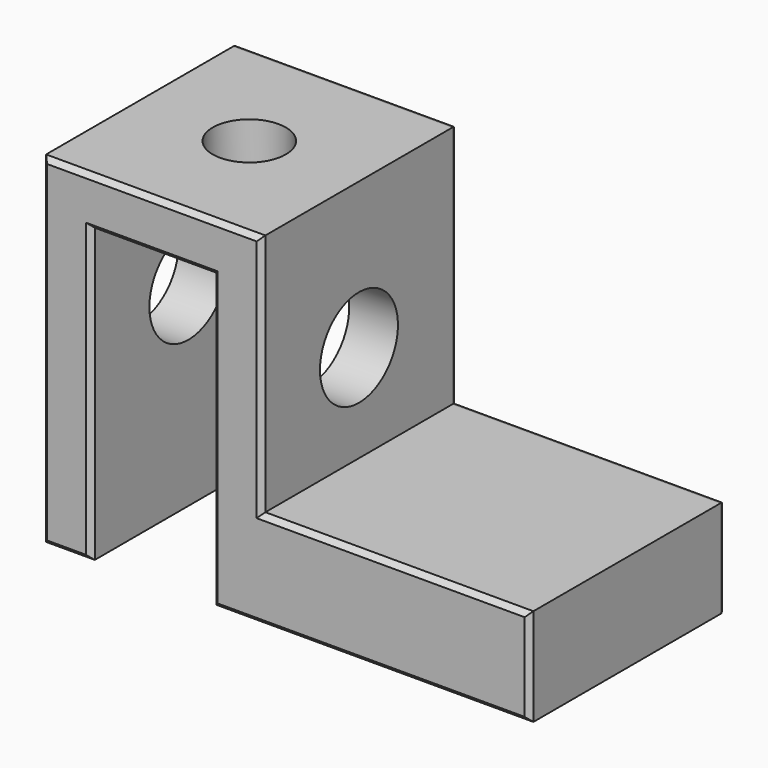
from build123d import *

# Parameters (mm, degrees)
F0_W     = 100
F0_H     = 50
F1_DEPTH = 20
F2_W     = 45
F2_H     = 50
F3_DEPTH = 50
F4_W     = 25
F4_H     = 60
F5_DEPTH = 50.001
F6_R     = 10
F7_DEPTH = 100.001
F8_R     = 7.5
F9_DEPTH = 10
F10_SIZE = 1
F11_R    = 1


with BuildPart() as f1:
    # F0 (on Top) → F1 (new body)
    with BuildSketch(Plane.XY):
        with Locations((50, 25)):
            Rectangle(F0_W, F0_H)
    extrude(amount=F1_DEPTH)

    # F2 (on face) → F3 (join)
    with BuildSketch(Plane.XY.offset(20)):
        with Locations((22.5, 25)):
            Rectangle(F2_W, F2_H)
    extrude(amount=F3_DEPTH)

    # F4 (on face) → F5 (cut, through all)
    with BuildSketch(Plane.XZ):
        with Locations((22.5, 30)):
            Rectangle(F4_W, F4_H)
    extrude(amount=-F5_DEPTH, mode=Mode.SUBTRACT)

    # F6 (on face) → F7 (cut, through all)
    with BuildSketch(Plane(origin=(0, 0, 0), x_dir=(0, -1, 0), z_dir=(-1, 0, 0))):
        with Locations((-25, 40)):
            Circle(F6_R)
    extrude(amount=-F7_DEPTH, mode=Mode.SUBTRACT)

    # F8 (on face) → F9 (cut, through all)
    with BuildSketch(Plane.XY.offset(70)):
        with Locations((22.5, 25)):
            Circle(F8_R)
    extrude(amount=-F9_DEPTH, mode=Mode.SUBTRACT)

    # F10
    f10_edges = [f1.edges().sort_by_distance(p)[0] for p in [
        (5, 0, 0),
        (0, 0, 35),
        (45, 0, 45),
        (22.5, 0, 70),
        (10, 0, 30),
        (22.5, 0, 60),
        (35, 0, 30),
        (67.5, 0, 0),
        (72.5, 0, 20),
        (100, 0, 10),
    ]]
    chamfer(f10_edges, length=F10_SIZE)

    # F11
    f11_edges = [f1.edges().sort_by_distance(p)[0] for p in [
        (0, 50, 35),
        (22.5, 50, 70),
        (45, 50, 45),
        (72.5, 50, 20),
        (100, 50, 10),
        (67.5, 50, 0),
        (35, 50, 30),
        (22.5, 50, 60),
        (10, 50, 30),
        (5, 50, 0),
    ]]
    fillet(f11_edges, radius=F11_R)


solid = f1.part
